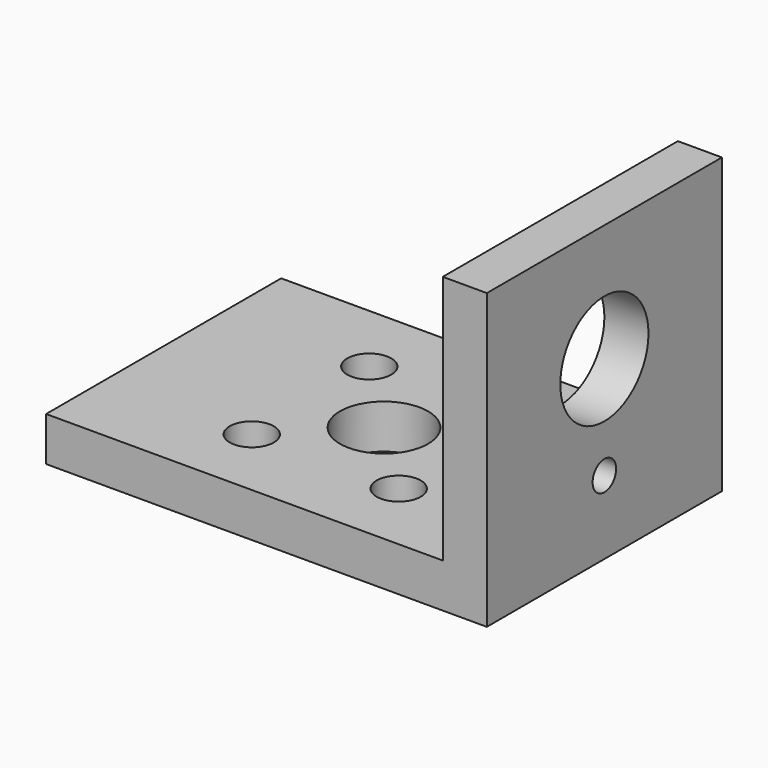
from build123d import *

# Parameters (mm, degrees)
F0_W     = 27
F0_H     = 20
F0_R     = 1.5
F0_R_2   = 3
F1_DEPTH = 3
F0_W_2   = 3
F2_DEPTH = 20
F3_R     = 3.75
F3_R_2   = 1
F4_DEPTH = 3


with BuildPart() as f1:
    # F0 (on Top) → F1 (new body)
    with BuildSketch(Plane.XY):
        with Locations((-3.945278, -0.49793)):
            Rectangle(F0_W, F0_H)
        with Locations((-7.445278, -5.49793)):
            Circle(F0_R, mode=Mode.SUBTRACT)
        with Locations((2.554722, -5.49793)):
            Circle(F0_R, mode=Mode.SUBTRACT)
        with Locations((-7.445278, 4.50207)):
            Circle(F0_R, mode=Mode.SUBTRACT)
        with Locations((-2.445278, -0.49793)):
            Circle(F0_R_2, mode=Mode.SUBTRACT)
        with Locations((2.554722, 4.50207)):
            Circle(F0_R, mode=Mode.SUBTRACT)
    extrude(amount=F1_DEPTH)

    # F0 (on Top) → F2 (join)
    with BuildSketch(Plane.XY):
        with Locations((11.054722, -0.49793)):
            Rectangle(F0_W_2, F0_H)
    extrude(amount=F2_DEPTH)

    # F3 (on face) → F4 (cut)
    with BuildSketch(Plane.YZ.offset(12.554722)):
        with Locations((-0.49793, 12)):
            Circle(F3_R)
        with Locations((-0.49793, 5)):
            Circle(F3_R_2)
        with Locations((-0.49793, -2.5)):
            Circle(F3_R_2)
    extrude(amount=-F4_DEPTH, mode=Mode.SUBTRACT)


solid = f1.part
